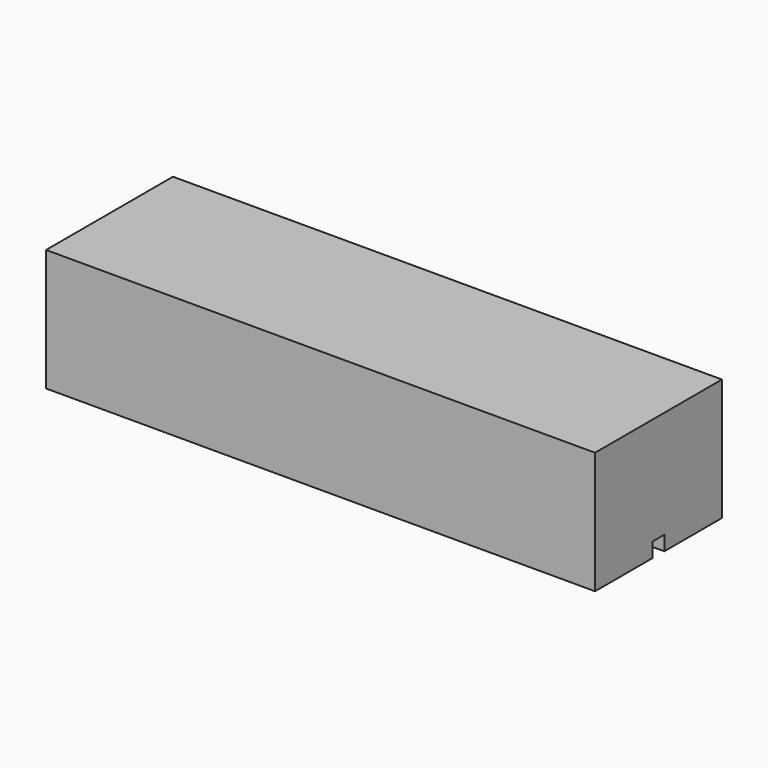
from build123d import *

# Parameters (mm, degrees)
F1_DEPTH = 225
F2_R     = 9.5
F3_DEPTH = 52


with BuildPart() as f1:
    # F0 (on Right) → F1 (new body)
    with BuildSketch(Plane.YZ):
        Polygon((0, 50), (0, 0), (29.5, 0), (29.5, 6), (32.5, 6), (32.5, 50), align=None)
    extrude(amount=F1_DEPTH)

    # F2 (on face) → F3 (cut)
    with BuildSketch(Plane(origin=(0, 0, 0), x_dir=(0, -1, 0), z_dir=(-1, 0, 0))):
        with Locations((-32.5, 28)):
            Circle(F2_R)
    extrude(amount=-F3_DEPTH, mode=Mode.SUBTRACT)

    # F4: F1 across face


with BuildPart() as f1_1:
    add(f1.part)
    add(f1.part.mirror(Plane(origin=(122.089542, 32.5, 28), x_dir=(-1, 0, 0), z_dir=(0, 1, 0))))


solid = f1_1.part
